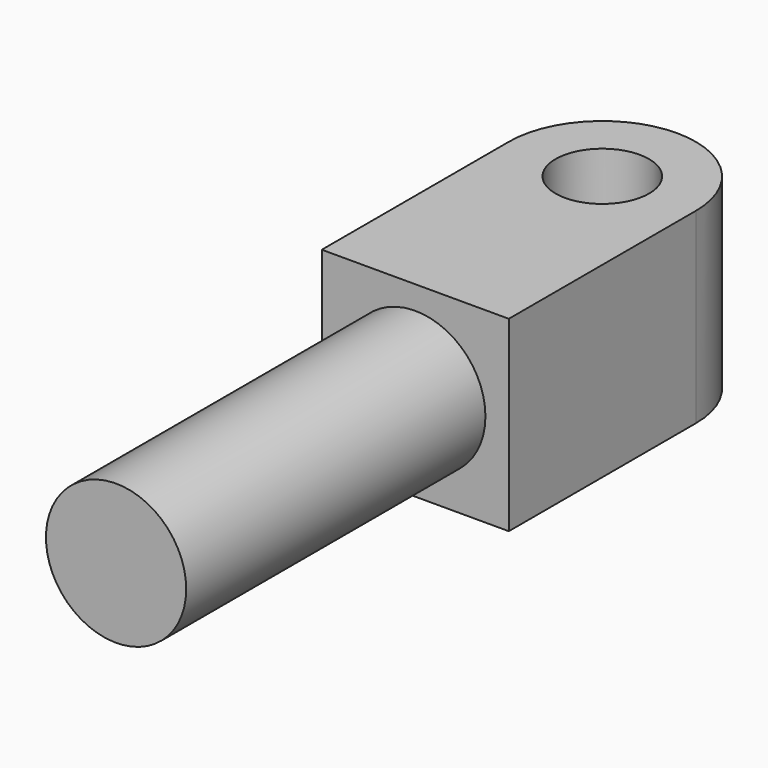
from build123d import *

# Parameters (mm, degrees)
F0_R     = 3.175
F1_DEPTH = 6.35
F2_R     = 4.7625
F3_DEPTH = 25.4


with BuildPart() as f1:
    # F0 (on Top) → F1 (new body, symmetric)
    with BuildSketch(Plane.XY):
        with BuildLine():
            Line((6.35, -15.875), (6.35, 0))
            ThreePointArc((6.35, 0), (0, 6.35), (-6.35, 0))
            Line((-6.35, 0), (-6.35, -15.875))
            Line((-6.35, -15.875), (6.35, -15.875))
        make_face()
        Circle(F0_R, mode=Mode.SUBTRACT)
    extrude(amount=F1_DEPTH, both=True)

    # F2 (on face) → F3 (join)
    with BuildSketch(Plane.XZ.offset(15.875)):
        Circle(F2_R)
    extrude(amount=F3_DEPTH)


with BuildPart() as f4_1:
    # F4: copy of F1
    add(f1.part)


solid = Compound([f1.part, f4_1.part])
